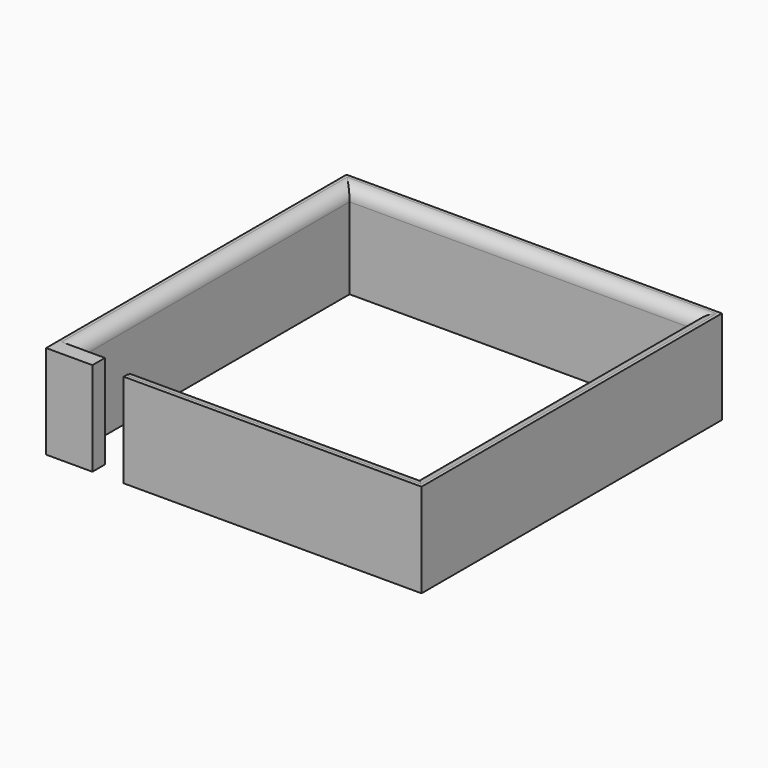
from build123d import *

# Parameters (mm, degrees)
F0_W     = 152.4
F0_H     = 152.4
F0_W_2   = 139.7
F0_H_2   = 139.7
F1_DEPTH = 38.1
F2_W     = 12.7
F2_H     = 38.1
F3_DEPTH = 37.084
F4_R     = 5.08


with BuildPart() as f1:
    # F0 (on Top) → F1 (new body)
    with BuildSketch(Plane.XY):
        with Locations((0, -7.475798)):
            Rectangle(F0_W, F0_H)
        with Locations((0, -7.475798)):
            Rectangle(F0_W_2, F0_H_2, mode=Mode.SUBTRACT)
    extrude(amount=F1_DEPTH)

    # F2 (on face) → F3 (cut)
    with BuildSketch(Plane.XZ.offset(83.675798)):
        with Locations((-51.042333, 19.05)):
            Rectangle(F2_W, F2_H)
    extrude(amount=-F3_DEPTH, mode=Mode.SUBTRACT)

    # F4
    f4_edges = [f1.edges().sort_by_distance(p)[0] for p in [
        (69.85, -7.475798, 38.1),
        (0, 62.374202, 38.1),
        (12.578834, -77.325798, 38.1),
        (-69.85, -7.475798, 38.1),
    ]]
    fillet(f4_edges, radius=F4_R)


solid = f1.part
